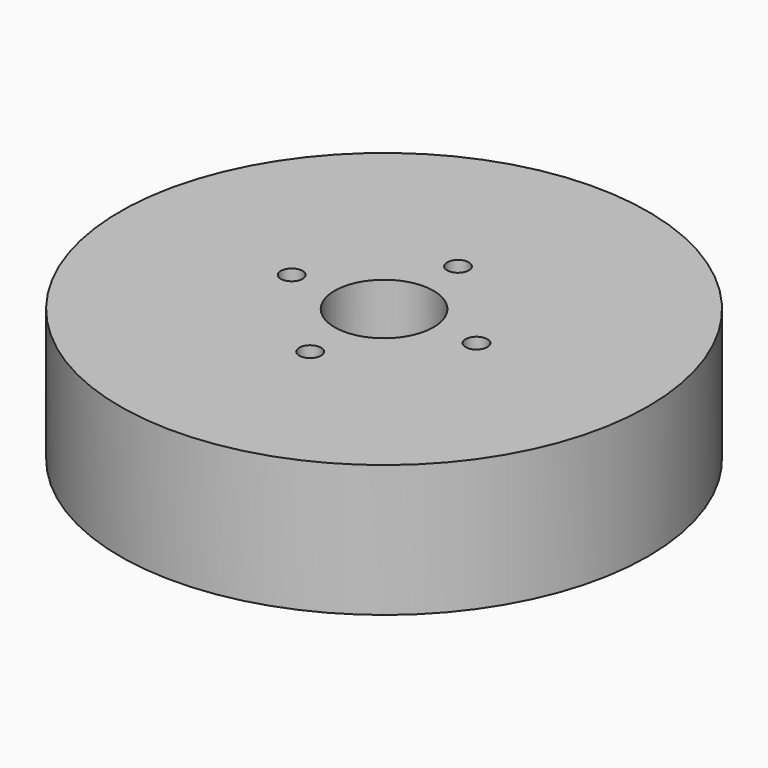
from build123d import *

# Parameters (mm, degrees)
F0_R     = 40
F0_R_2   = 7.5
F2_DEPTH = 20
F1_R     = 1.65
F3_DEPTH = 20


with BuildPart() as f2:
    # F0 (on Top) → F2 (new body)
    with BuildSketch(Plane.XY):
        Circle(F0_R)
        Circle(F0_R_2, mode=Mode.SUBTRACT)
    extrude(amount=F2_DEPTH)

    # F1 (on Top) → F3 (cut)
    with BuildSketch(Plane.XY):
        with Locations((0, -14)):
            Circle(F1_R)
        with Locations((14, 0)):
            Circle(F1_R)
        with Locations((0, 14)):
            Circle(F1_R)
        with Locations((-14, 0)):
            Circle(F1_R)
    extrude(amount=F3_DEPTH, mode=Mode.SUBTRACT)


solid = f2.part
